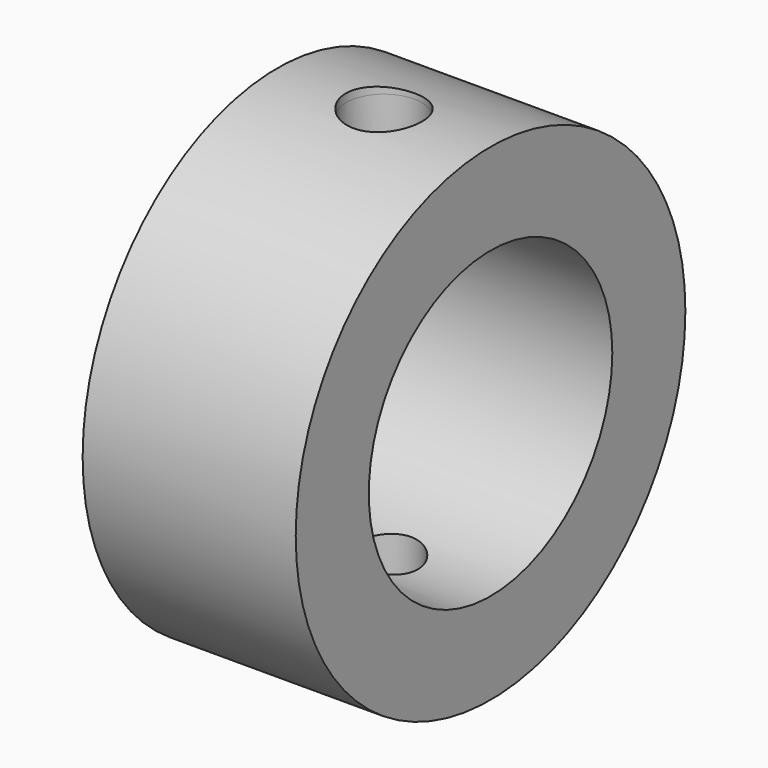
from build123d import *

# Parameters (mm, degrees)
F2_R     = 12.7
F2_R_2   = 7.9375
F0_DEPTH = 5.55625


with BuildPart() as f0:
    # F2 (on Right) → F0 (new body, symmetric)
    with BuildSketch(Plane.YZ):
        Circle(F2_R)
        Circle(F2_R_2, mode=Mode.SUBTRACT)
    extrude(amount=F0_DEPTH, both=True)

    # F1 (on Front) → F3 (revolve, cut)
    with BuildSketch(Plane.XZ):
        Polygon((1.7145, -12.386102), (1.9812, 12.275856), (1.985787, 12.7), (0, 12.7), (0, -12.7), (1.711105, -12.7), align=None)
    revolve(axis=Axis((0, 0, 0), (0, 0, -1)), mode=Mode.SUBTRACT)


solid = f0.part
